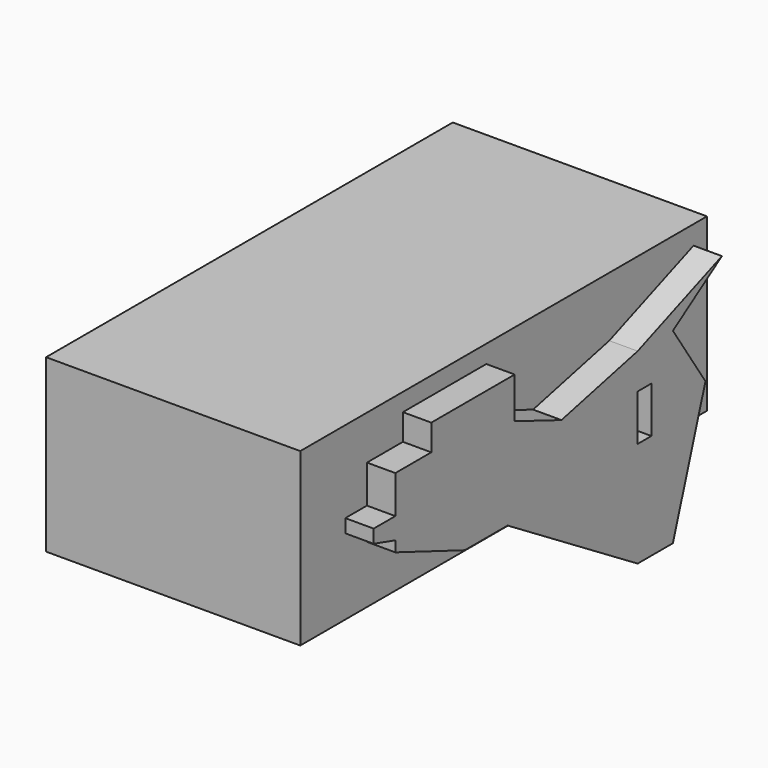
from build123d import *

# Parameters (mm, degrees)
F0_W     = 127
F0_H     = 85.5306185286
F1_DEPTH = 254
F2_W     = 44.157743454
F2_H     = 12.9875717685
F3_DEPTH = 76.2
F4_W     = 12.6961972564
F4_H     = 7.905177772
F5_DEPTH = 12.7
F6_W     = 9.1298371553
F6_H     = 11.8159283884
F6_W_2   = 8.5927993059
F6_H_2   = 6.6836136393
F6_W_3   = 35.9823405743
F7_DEPTH = 76.2


with BuildPart() as f1:
    # F0 (on Front) → F1 (new body)
    with BuildSketch(Plane.XZ):
        with Locations((-1.4842953533, -1.855365932)):
            Rectangle(F0_W, F0_H)
    extrude(amount=F1_DEPTH)

    # F2 (on Right) → F3 (join)
    with BuildSketch(Plane.YZ):
        Polygon((-157.0569574833, 18.924748525), (-212.3468965292, 18.924748525), (-212.3468965292, -15.9561578184), (-168.9313054085, -15.9561578184), (-168.9313054085, 0), (-157.0569574833, 0), align=None)
        Polygon((-108.4463298321, 0), (-157.0569574833, 18.924748525), (-157.0569574833, 0), align=None)
        Polygon((-168.9313054085, -15.9561578184), (-212.3468965292, -15.9561578184), (-168.9313054085, -32.6544642448), align=None)
        Polygon((-108.4463298321, 0), (-157.0569574833, 0), (-157.0569574833, -15.9561578184), (-168.9313054085, -15.9561578184), (-168.9313054085, -32.6544642448), (-108.4463298321, -32.6544642448), (-108.4463298321, -21.8933336437), (-116.9810146093, -21.8933336437), (-116.9810146093, -8.9057618752), (-108.4463298321, -8.9057618752), align=None)
        Polygon((-64.2885863781, -8.9057618752), (-108.4463298321, 0), (-108.4463298321, -8.9057618752), align=None)
        with Locations((-86.3674581051, -15.3995477594)):
            Rectangle(F2_W, F2_H)
        Polygon((-108.4463298321, -21.8933336437), (-108.4463298321, -32.6544642448), (-64.2885863781, -21.8933336437), align=None)
    extrude(amount=F3_DEPTH)

    # F4 (on Front) → F5 (join)
    with BuildSketch(Plane.XZ):
        Polygon((-24.3036681507, 11.0724206409), (-24.1946410388, 11.0193416476), (11.4984409884, 11.0193416476), (11.4984409884, 25.6319474429), align=None)
        Polygon((11.4984409884, 11.0193416476), (-24.1946410388, 11.0193416476), (-24.1946410388, 9.8215872422), (-16.5290106088, 9.8215872422), (-16.5290106088, 2.1559579764), (-24.1946410388, 2.1559579764), (-24.1946410388, -17.2476638108), (-18.684970215, -17.2476638108), (-7.1865268983, -17.2476638108), (-7.1865268983, -10.779789649), (19.6431726217, -10.779789649), (19.6431726217, 0), (11.4984409884, 0), align=None)
        Polygon((-24.1946410388, 9.8215872422), (-24.1946410388, 11.0193416476), (-24.3036681507, 11.0724206409), (-42.400509119, 19.8827255517), (-42.400509119, 9.8215872422), align=None)
        Polygon((11.4984409884, 25.6319474429), (11.4984409884, 11.0193416476), (19.6431726217, 11.0193416476), (19.6431726217, 0), (48.6288368702, 0), (48.6288368702, 25.6319474429), align=None)
        Polygon((-24.1946410388, 2.1559579764), (-24.1946410388, 9.8215872422), (-42.400509119, 9.8215872422), (-42.400509119, 7.186527364), (-45.2751219273, 7.186527364), (-45.2751219273, 2.1559579764), (-41.9214069843, 2.1559579764), (-41.9214069843, 4.072365351), (-29.4647607952, 4.072365351), (-29.4647607952, 2.1559579764), align=None)
        Polygon((-24.1946410388, -17.2476638108), (-24.1946410388, 2.1559579764), (-29.4647607952, 2.1559579764), (-29.4647607952, -4.3119159527), align=None)
        Polygon((-45.2751219273, 9.8215872422), (-42.400509119, 9.8215872422), (-42.400509119, 19.8827255517), (-57.9713173211, 19.8827255517), (-57.9713173211, 7.186527364), (-45.2751219273, 7.186527364), align=None)
        Polygon((48.6288368702, 0), (19.6431726217, 0), (19.6431726217, -10.779789649), (31.6207185388, -10.779789649), (31.6207185388, -5.5096708238), (47.6706326008, -5.5096708238), align=None)
        Polygon((-41.9214069843, -12.6961972564), (-24.1946410388, -17.2476638108), (-29.4647607952, -4.3119159527), (-29.4647607952, -12.6961972564), align=None)
        Polygon((-29.4647607952, -4.3119159527), (-29.4647607952, 2.1559579764), (-41.9214069843, 2.1559579764), (-41.9214069843, -12.6961972564), (-29.4647607952, -12.6961972564), align=None)
        Polygon((31.6207185388, -10.779789649), (19.6431726217, -10.779789649), (19.6431726217, -17.2476638108), (-7.1865268983, -17.2476638108), (-7.1865268983, -32.3393717408), (9.5820333809, -32.3393717408), (9.5820333809, -25.3923945129), (22.2782306373, -25.3923945129), (22.2782306373, -32.3393717408), (29.2252078652, -32.3393717408), (35.6930866838, -32.3393717408), (35.6930866838, -24.6737431735), (31.6207185388, -24.6737431735), align=None)
        Polygon((-7.1865268983, -17.2476638108), (-18.684970215, -17.2476638108), (-7.1865268983, -32.3393717408), align=None)
        Polygon((-45.2751219273, 2.1559579764), (-41.9214069843, -12.6961972564), (-41.9214069843, 2.1559579764), align=None)
        Polygon((-45.2751219273, 2.1559579764), (-45.2751219273, 7.186527364), (-57.9713173211, 7.186527364), align=None)
        Polygon((31.6207185388, -5.5096708238), (31.6207185388, -10.779789649), (35.6930866838, -10.779789649), (35.6930866838, -24.6737431735), (47.6706326008, -24.6737431735), (47.6706326008, -5.5096708238), align=None)
        Polygon((9.5820333809, -32.3393717408), (-7.1865268983, -32.3393717408), (9.5820333809, -40.2445495129), align=None)
        Polygon((35.6930866838, -32.3393717408), (47.6706326008, -24.6737431735), (35.6930866838, -24.6737431735), align=None)
        with Locations((15.9301320091, -36.2919606268)):
            Rectangle(F4_W, F4_H)
        Polygon((29.2252078652, -32.3393717408), (22.2782306373, -32.3393717408), (22.2782306373, -40.2445495129), align=None)
    extrude(amount=-F5_DEPTH)

    # F6 (on Right) → F7 (join)
    with BuildSketch(Plane.YZ):
        Polygon((-38.9934703708, -82.4129879475), (-38.9934703708, 11.0402805731), (-61.0125139356, 11.0402805731), (-61.0125139356, -6.6836136393), (-52.4197183549, -6.6836136393), (-52.4197183549, -29.7783855349), (-61.0125139356, -29.7783855349), (-61.0125139356, -82.4129879475), align=None)
        Polygon((-18.666213934, -19.4484525669), (-38.9934703708, 11.0402805731), (-38.9934703708, -82.4129879475), align=None)
        Polygon((-61.0125139356, 11.0402805731), (-38.9934703708, 11.0402805731), (-8.3816275001, 31.4496159554), align=None)
        Polygon((-61.0125139356, -6.6836136393), (-61.0125139356, 11.0402805731), (-137.8106474876, -6.6836136393), align=None)
        Polygon((-61.0125139356, -29.7783855349), (-61.0125139356, -6.6836136393), (-137.8106474876, -6.6836136393), (-137.8106474876, -18.4995420277), (-146.940484643, -18.4995420277), (-146.940484643, -29.7783855349), align=None)
        with Locations((-142.3755660653, -12.5915778335)):
            Rectangle(F6_W, F6_H)
        Polygon((-146.940484643, -6.6836136393), (-137.8106474876, -6.6836136393), (-137.8106474876, 31.9867022336), (-189.9044811726, 31.9867022336), (-189.9044811726, 0), (-181.3116818666, 0), (-181.3116818666, -6.6836136393), (-189.9044811726, -6.6836136393), (-189.9044811726, -17.2098011525), (-185.4956773803, -18.4995420277), (-146.940484643, -18.4995420277), align=None)
        Polygon((-146.940484643, -29.7783855349), (-61.0125139356, -82.4129879475), (-61.0125139356, -29.7783855349), align=None)
        Polygon((-185.4956773803, -18.4995420277), (-146.940484643, -29.7783855349), (-146.940484643, -18.4995420277), align=None)
        Polygon((-189.9044811726, -18.4995420277), (-185.4956773803, -18.4995420277), (-189.9044811726, -17.2098011525), align=None)
        with Locations((-185.6080815196, -3.3418068197)):
            Rectangle(F6_W_2, F6_H_2)
        with Locations((-207.8956514597, -3.3418068197)):
            Rectangle(F6_W_3, F6_H_2)
        Polygon((-225.8868217468, -6.6836136393), (-189.9044811726, -17.2098011525), (-189.9044811726, -6.6836136393), align=None)
    extrude(amount=F7_DEPTH)


solid = f1.part
